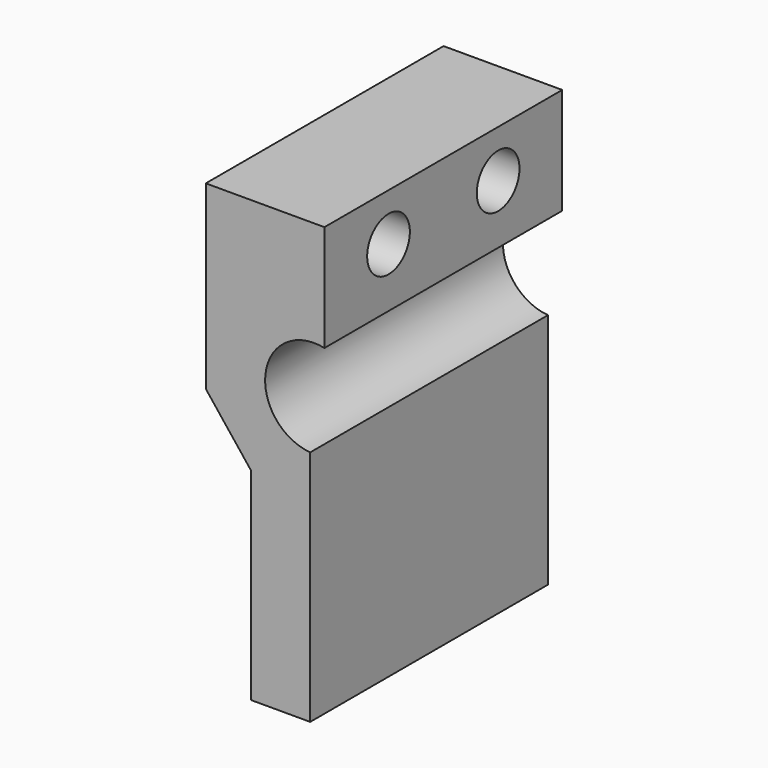
from build123d import *

# Parameters (mm, degrees)
F1_DEPTH = 50.1
F3_D     = 9


with BuildPart() as f1:
    # F0 (on Front) → F1 (new body)
    with BuildSketch(Plane.XZ):
        with BuildLine():
            Line((0, 20.1881089388), (0, 38.1235034296))
            Line((0, 38.1235034296), (-20, 38.1235034296))
            Line((-20, 38.1235034296), (-20, 7.6235034296))
            Line((-20, 7.6235034296), (-12.4, -1.9764965704))
            Line((-12.4, -1.9764965704), (-12.4, -36.0764965704))
            Line((-12.4, -36.0764965704), (-2.4, -36.0764965704))
            Line((-2.4, -36.0764965704), (-2.4, 3.9235034296))
            ThreePointArc((-2.4, 3.9235034296), (-9.9117323022, 13.3413066234), (0, 20.1881089388))
        make_face()
    extrude(amount=-F1_DEPTH)

    # F3 (through all)
    with Locations(Plane.YZ):
        with Locations((13.5, 30.1235034296), (36.6, 30.1235034296)):
            Hole(F3_D / 2)


solid = f1.part
